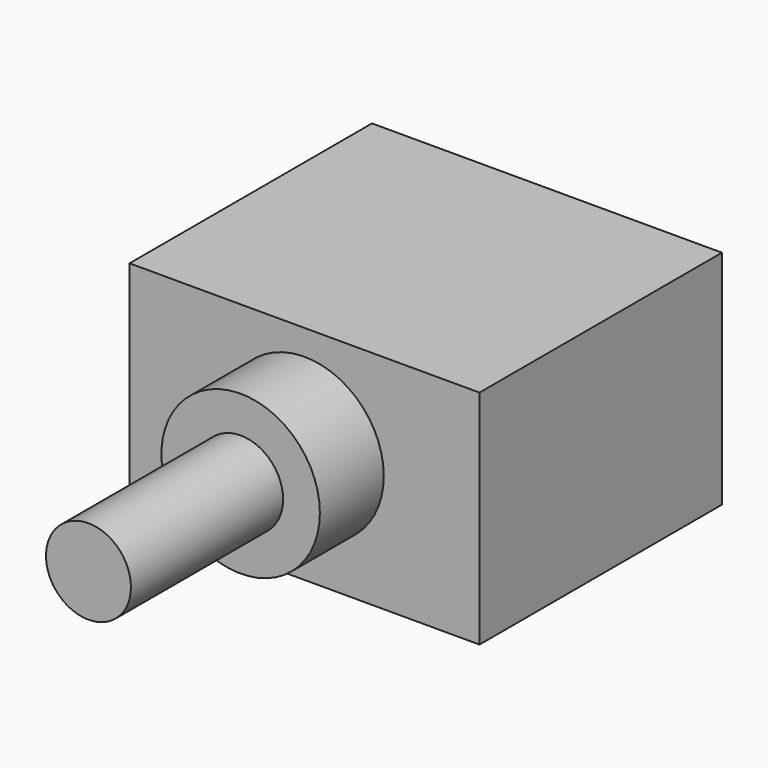
from build123d import *

# Parameters (mm, degrees)
F0_R     = 0.8509
F1_DEPTH = 5.4102
F0_R_2   = 1.5875
F2_DEPTH = 1.6002
F0_W     = 7.0104
F0_H     = 4.445
F3_DEPTH = 6.0706


with BuildPart() as f1:
    # F0 (on Front) → F1 (new body)
    with BuildSketch(Plane.XZ):
        with Locations((-12.784125, 14.451561)):
            Circle(F0_R)
    extrude(amount=F1_DEPTH)

    # F0 (on Front) → F2 (join)
    with BuildSketch(Plane.XZ):
        with Locations((-12.784125, 14.451561)):
            Circle(F0_R_2)
        with Locations((-12.784125, 14.451561)):
            Circle(F0_R, mode=Mode.SUBTRACT)
    extrude(amount=F2_DEPTH)


with BuildPart() as f3:
    # F0 (on Front) → F3 (new body)
    with BuildSketch(Plane.XZ):
        with Locations((-12.784125, 14.324561)):
            Rectangle(F0_W, F0_H)
        with Locations((-12.784125, 14.451561)):
            Circle(F0_R_2, mode=Mode.SUBTRACT)
        with Locations((-12.784125, 14.451561)):
            Circle(F0_R_2)
        with Locations((-12.784125, 14.451561)):
            Circle(F0_R, mode=Mode.SUBTRACT)
        with Locations((-12.784125, 14.451561)):
            Circle(F0_R)
    extrude(amount=-F3_DEPTH)


solid = Compound([f1.part, f3.part])
